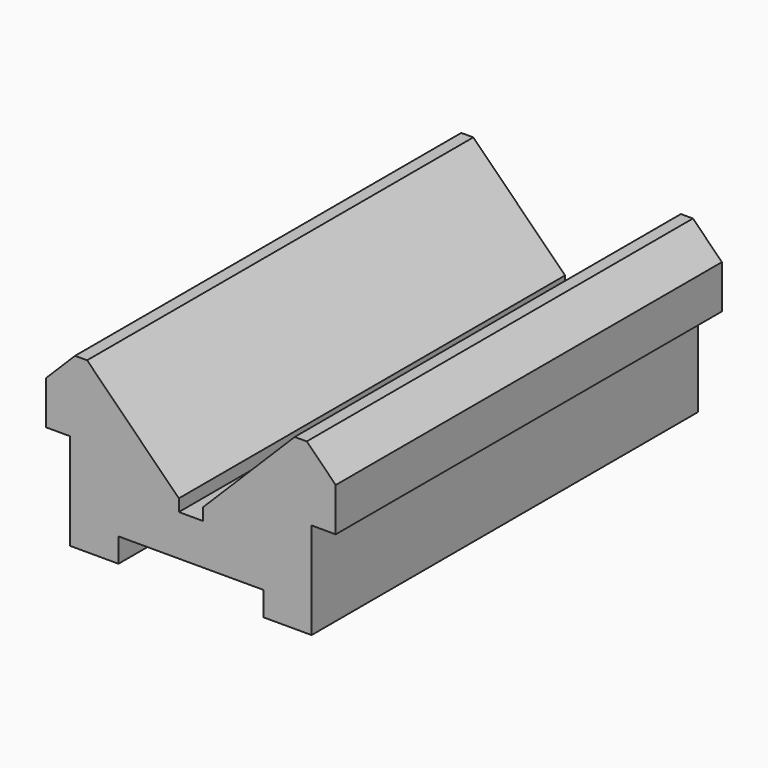
from build123d import *

# Parameters (mm, degrees)
F1_DEPTH = 100


with BuildPart() as f1:
    # F0 (on Front) → F1 (new body)
    with BuildSketch(Plane.XZ):
        Polygon((2.5, 13.5), (0, 13.5), (-2.5, 13.5), (-2.5, 16), (-21.5, 35), (-24, 35), (-30, 29), (-30, 20), (-25, 20), (-25, 0), (-15, 0), (-15, 5), (0, 5), (15, 5), (15, 0), (25, 0), (25, 20), (30, 20), (30, 29), (24, 35), (21.5, 35), (2.5, 16), align=None)
    extrude(amount=F1_DEPTH)


solid = f1.part
